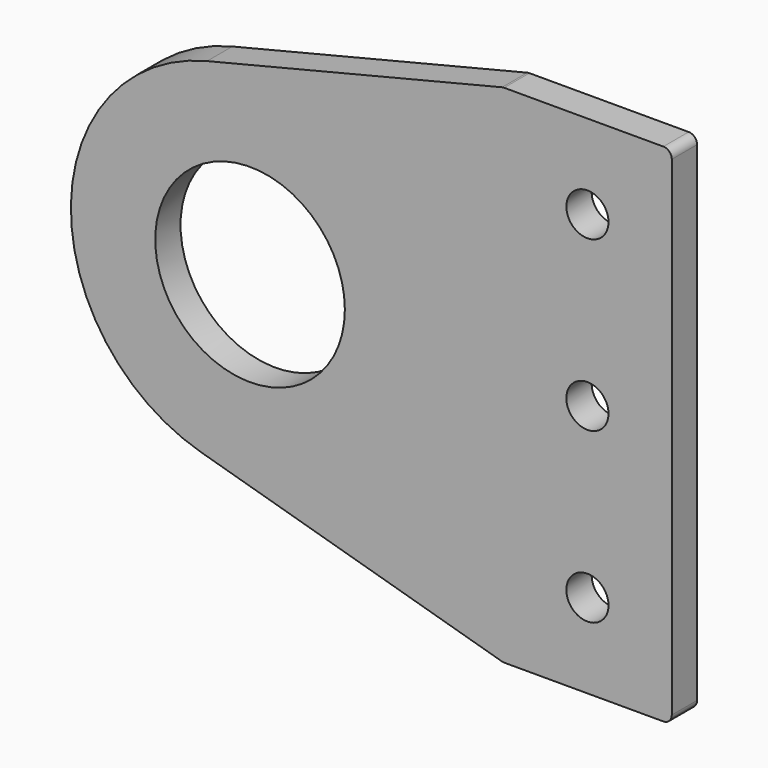
from build123d import *

# Parameters (mm, degrees)
F0_R     = 14.2748
F1_DEPTH = 4.7625
F2_D     = 6.35
F3_R     = 1.27


with BuildPart() as f1:
    # F0 (on Front) → F1 (new body)
    with BuildSketch(Plane.XZ):
        with BuildLine():
            Line((-29.2914260553, -14.6972390882), (-29.2914260553, 61.5027609118))
            Line((-29.2914260553, 61.5027609118), (-54.6914260553, 61.5027609118))
            Line((-54.6914260553, 61.5027609118), (-99.2620043736, 50.4898616483))
            ThreePointArc((-99.2620043736, 50.4898616483), (-119.7615401749, 24.805395053), (-100.2335245042, -1.6252575368))
            Line((-100.2335245042, -1.6252575368), (-54.6914260553, -14.6972390882))
            Line((-54.6914260553, -14.6972390882), (-29.2914260553, -14.6972390882))
        make_face()
        with Locations((-92.7914260553, 24.3026233199)):
            Circle(F0_R, mode=Mode.SUBTRACT)
    extrude(amount=F1_DEPTH)

    # F2 (through all)
    with Locations(Plane(origin=(0, 0, 0), x_dir=(1, 0, 0), z_dir=(0, 1, 0))):
        with Locations((-41.9914260553, -48.8027609118), (-41.9914260553, -23.4027609118), (-41.9914260553, 1.9972390882)):
            Hole(F2_D / 2)

    # F3
    f3_edges = [f1.edges().sort_by_distance(p)[0] for p in [
        (-29.291426, -2.38125, 61.502761),
        (-29.291426, -2.38125, -14.697239),
        (-54.691426, -2.38125, 61.502761),
        (-54.691426, -2.38125, -14.697239),
    ]]
    fillet(f3_edges, radius=F3_R)


solid = f1.part
